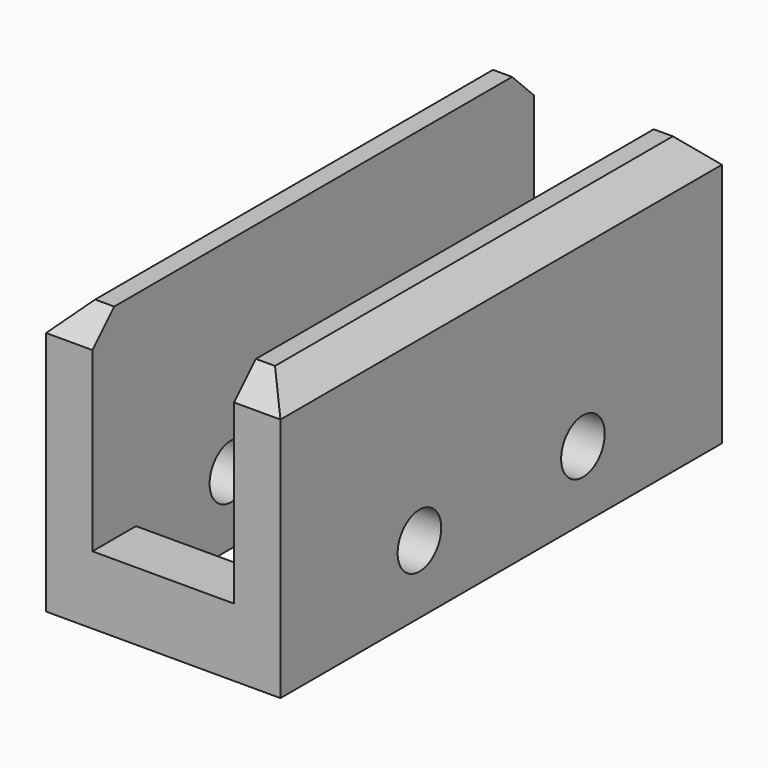
from build123d import *

# Parameters (mm, degrees)
F0_W     = 10.922
F0_H     = 25.7175
F1_DEPTH = 12.7
F2_W     = 6.604
F2_H     = 20.6375
F3_DEPTH = 25.4
F5_DEPTH = 32.18438
F6_R     = 1.27
F7_DEPTH = 25.4
F8_SIZE  = 1.27


with BuildPart() as f1:
    # F0 (on Top) → F1 (new body)
    with BuildSketch(Plane.XY):
        Rectangle(F0_W, F0_H)
    extrude(amount=F1_DEPTH)

    # F2 (on face) → F3 (cut)
    with BuildSketch(Plane.XY.offset(12.7)):
        Rectangle(F2_W, F2_H)
    extrude(amount=-F3_DEPTH, mode=Mode.SUBTRACT)

    # F4 (on face) → F5 (cut)
    with BuildSketch(Plane(origin=(0, 12.85875, 0), x_dir=(-1, 0, 0), z_dir=(0, 1, 0))):
        Polygon((0, 12.7), (-3.302, 12.7), (-3.302, 3.175), (3.302, 3.175), (3.302, 12.7), align=None)
    extrude(amount=-F5_DEPTH, mode=Mode.SUBTRACT)

    # F6 (on face) → F7 (cut)
    with BuildSketch(Plane.YZ.offset(5.461)):
        with Locations((-4.7625, 3.172593)):
            Circle(F6_R)
        with Locations((4.7625, 3.172593)):
            Circle(F6_R)
    extrude(amount=-F7_DEPTH, mode=Mode.SUBTRACT)

    # F8
    f8_edges = [f1.edges().sort_by_distance(p)[0] for p in [
        (-5.461, 0, 12.7),
        (5.461, 0, 12.7),
        (4.3815, 12.85875, 12.7),
        (-4.3815, 12.85875, 12.7),
        (4.3815, -12.85875, 12.7),
        (-4.3815, -12.85875, 12.7),
    ]]
    chamfer(f8_edges, length=F8_SIZE)


solid = f1.part
